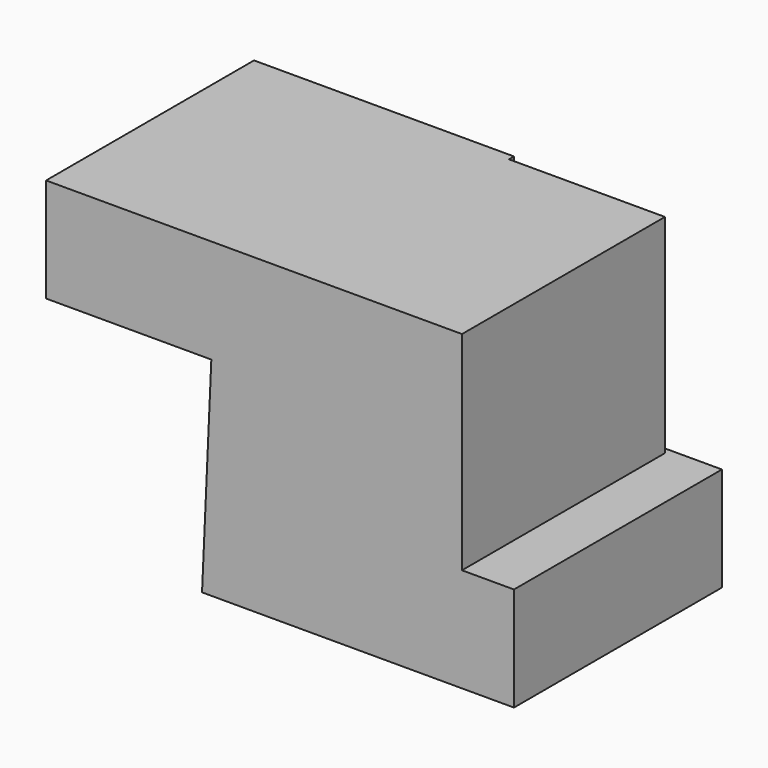
from build123d import *

# Parameters (mm, degrees)
F1_DEPTH = 63.5
F2_W     = 38.1
F2_H     = 50.8
F3_DEPTH = 61.976


with BuildPart() as f1:
    # F0 (on Front) → F1 (new body)
    with BuildSketch(Plane.XZ):
        Polygon((-26.163351, 0), (-28.433141, -50.8), (47.766859, -50.8), (47.766859, -25.4), (-3.033141, -25.4), (-3.033141, 25.4), (-66.533141, 25.4), (-66.533141, 0), (-64.263351, 0), align=None)
    extrude(amount=F1_DEPTH)

    # F2 (on face) → F3 (join)
    with BuildSketch(Plane.XZ.offset(63.5)):
        with Locations((16.016859, 0)):
            Rectangle(F2_W, F2_H)
    extrude(amount=-F3_DEPTH)


solid = f1.part
